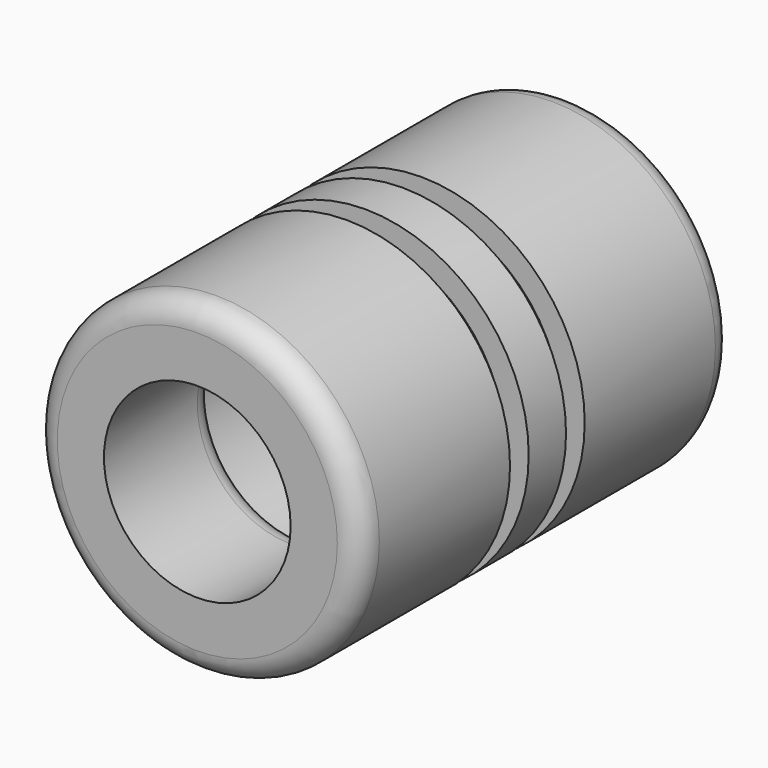
from build123d import *

# Parameters (mm, degrees)
F0_W = 1
F0_H = 1


with BuildPart() as f1:
    # F0 (on Top) → F1 (revolve)
    with BuildSketch(Plane.XY):
        with BuildLine():
            Line((36, -22.526782), (36, -27.526782))
            Line((36, -27.526782), (38, -27.526782))
            ThreePointArc((38, -27.526782), (38.707107, -27.233889), (39, -26.526782))
            Line((39, -26.526782), (39, -21.526782))
            Line((39, -21.526782), (37, -21.526782))
            ThreePointArc((37, -21.526782), (36.292893, -21.819675), (36, -22.526782))
        make_face()
        Polygon((37, -19.526782), (37, -21.526782), (39, -21.526782), (39, -19.526782), (38, -19.526782), align=None)
        with Locations((37.5, -19.026782)):
            Rectangle(F0_W, F0_H)
        Polygon((37, -16.526782), (37, -18.526782), (38, -18.526782), (39, -18.526782), (39, -16.526782), (38, -16.526782), align=None)
        with Locations((37.5, -16.026782)):
            Rectangle(F0_W, F0_H)
        Polygon((37, -13.526782), (37, -15.526782), (38, -15.526782), (39, -15.526782), (39, -13.526782), align=None)
        with BuildLine():
            ThreePointArc((36, -12.526782), (36.292893, -13.233889), (37, -13.526782))
            Line((37, -13.526782), (39, -13.526782))
            Line((39, -13.526782), (39, -8.526782))
            ThreePointArc((39, -8.526782), (38.707107, -7.819675), (38, -7.526782))
            Line((38, -7.526782), (37, -7.526782))
            ThreePointArc((37, -7.526782), (36.292893, -7.819675), (36, -8.526782))
            Line((36, -8.526782), (36, -12.526782))
        make_face()
    revolve(axis=Axis((32, -17.526782, 0), (0, 1, 0)))


with BuildPart() as f1_1:
    # F2: moved
    add(f1.part.moved(Location((0, -2, 0))))


solid = f1_1.part
